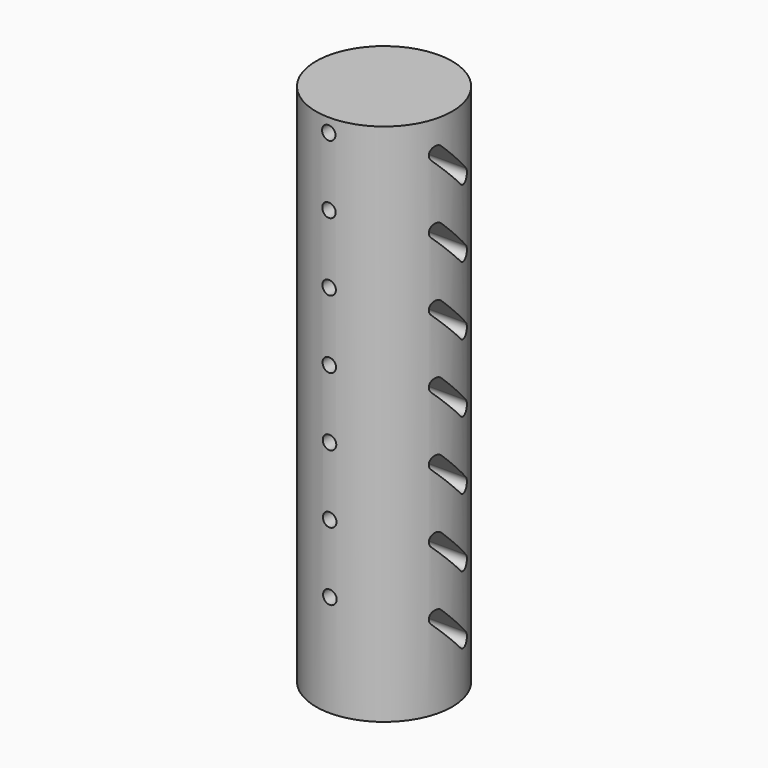
from build123d import *

# Parameters (mm, degrees)
F0_R      = 10
F1_DEPTH  = 77
F3_R      = 1
F4_DEPTH  = 10
F7_DEPTH  = 10
F10_DEPTH = 10


with BuildPart() as f1:
    # F0 (on Top) → F1 (new body)
    with BuildSketch(Plane.XY):
        Circle(F0_R)
    extrude(amount=F1_DEPTH)

    # F3 (on offset) → F4 (cut)
    with BuildSketch(Plane.XZ.offset(10)):
        with Locations((0, 15)):
            Circle(F3_R)
        with Locations((-0.026574, 24.999965)):
            Circle(F3_R)
        with Locations((-0.053149, 34.999929)):
            Circle(F3_R)
        with Locations((-0.079723, 44.999894)):
            Circle(F3_R)
        with Locations((-0.106297, 54.999859)):
            Circle(F3_R)
        with Locations((-0.132872, 64.999823)):
            Circle(F3_R)
        with Locations((-0.159446, 74.999788)):
            Circle(F3_R)
    extrude(amount=-F4_DEPTH, mode=Mode.SUBTRACT)

    # F6 (on offset) → F7 (cut)
    with BuildSketch(Plane.YZ.offset(10)):
        with BuildLine():
            ThreePointArc((-1.792893, 13.207107), (-3.207107, 13.207107), (-3.207107, 11.792893))
            Line((-3.207107, 11.792893), (1.792893, 6.792893))
            ThreePointArc((1.792893, 6.792893), (3.207107, 6.792893), (3.207107, 8.207107))
            Line((3.207107, 8.207107), (-1.792893, 13.207107))
        make_face()
        with BuildLine():
            ThreePointArc((-1.792893, 23.207107), (-3.207107, 23.207107), (-3.207107, 21.792893))
            Line((-3.207107, 21.792893), (1.792893, 16.792893))
            ThreePointArc((1.792893, 16.792893), (3.207107, 16.792893), (3.207107, 18.207107))
            Line((3.207107, 18.207107), (-1.792893, 23.207107))
        make_face()
        with BuildLine():
            ThreePointArc((-1.792893, 33.207107), (-3.207107, 33.207107), (-3.207107, 31.792893))
            Line((-3.207107, 31.792893), (1.792893, 26.792893))
            ThreePointArc((1.792893, 26.792893), (3.207107, 26.792893), (3.207107, 28.207107))
            Line((3.207107, 28.207107), (-1.792893, 33.207107))
        make_face()
        with BuildLine():
            ThreePointArc((-1.792893, 43.207107), (-3.207107, 43.207107), (-3.207107, 41.792893))
            Line((-3.207107, 41.792893), (1.792893, 36.792893))
            ThreePointArc((1.792893, 36.792893), (3.207107, 36.792893), (3.207107, 38.207107))
            Line((3.207107, 38.207107), (-1.792893, 43.207107))
        make_face()
        with BuildLine():
            ThreePointArc((-1.792893, 53.207107), (-3.207107, 53.207107), (-3.207107, 51.792893))
            Line((-3.207107, 51.792893), (1.792893, 46.792893))
            ThreePointArc((1.792893, 46.792893), (3.207107, 46.792893), (3.207107, 48.207107))
            Line((3.207107, 48.207107), (-1.792893, 53.207107))
        make_face()
        with BuildLine():
            ThreePointArc((-1.792893, 63.207107), (-3.207107, 63.207107), (-3.207107, 61.792893))
            Line((-3.207107, 61.792893), (1.792893, 56.792893))
            ThreePointArc((1.792893, 56.792893), (3.207107, 56.792893), (3.207107, 58.207107))
            Line((3.207107, 58.207107), (-1.792893, 63.207107))
        make_face()
        with BuildLine():
            ThreePointArc((-1.792893, 73.207107), (-3.207107, 73.207107), (-3.207107, 71.792893))
            Line((-3.207107, 71.792893), (1.792893, 66.792893))
            ThreePointArc((1.792893, 66.792893), (3.207107, 66.792893), (3.207107, 68.207107))
            Line((3.207107, 68.207107), (-1.792893, 73.207107))
        make_face()
    extrude(amount=-F7_DEPTH, mode=Mode.SUBTRACT)

    # F9 (on offset) → F10 (cut)
    with BuildSketch(Plane.XZ.offset(-10)):
        Polygon((2.886751, 12.5), (-2.886751, 12.5), (0, 7.5), align=None)
        Polygon((-2.886751, 22.5), (0, 17.5), (2.886751, 22.5), align=None)
        Polygon((-2.886751, 32.5), (0, 27.5), (2.886751, 32.5), align=None)
        Polygon((-2.886751, 42.5), (0, 37.5), (2.886751, 42.5), align=None)
        Polygon((-2.886751, 52.5), (0, 47.5), (2.886751, 52.5), align=None)
        Polygon((-2.886751, 62.5), (0, 57.5), (2.886751, 62.5), align=None)
        Polygon((-2.886751, 72.5), (0, 67.5), (2.886751, 72.5), align=None)
    extrude(amount=F10_DEPTH, mode=Mode.SUBTRACT)


solid = f1.part
